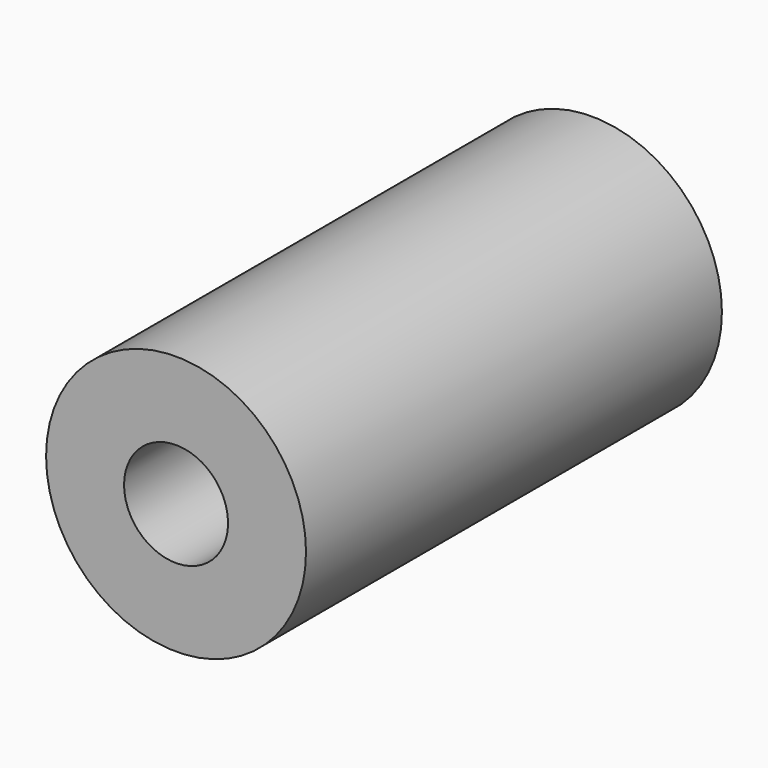
from build123d import *

# Parameters (mm, degrees)
F0_R     = 6.25
F1_DEPTH = 25
F3_D     = 5
F3_DEPTH = 37.5


with BuildPart() as f1:
    # F0 (on Front) → F1 (new body)
    with BuildSketch(Plane.XZ):
        Circle(F0_R)
    extrude(amount=F1_DEPTH)

    # F3
    with Locations(Plane.XZ.offset(25)):
        with Locations((0, 0)):
            Hole(F3_D / 2, depth=F3_DEPTH)


solid = f1.part
